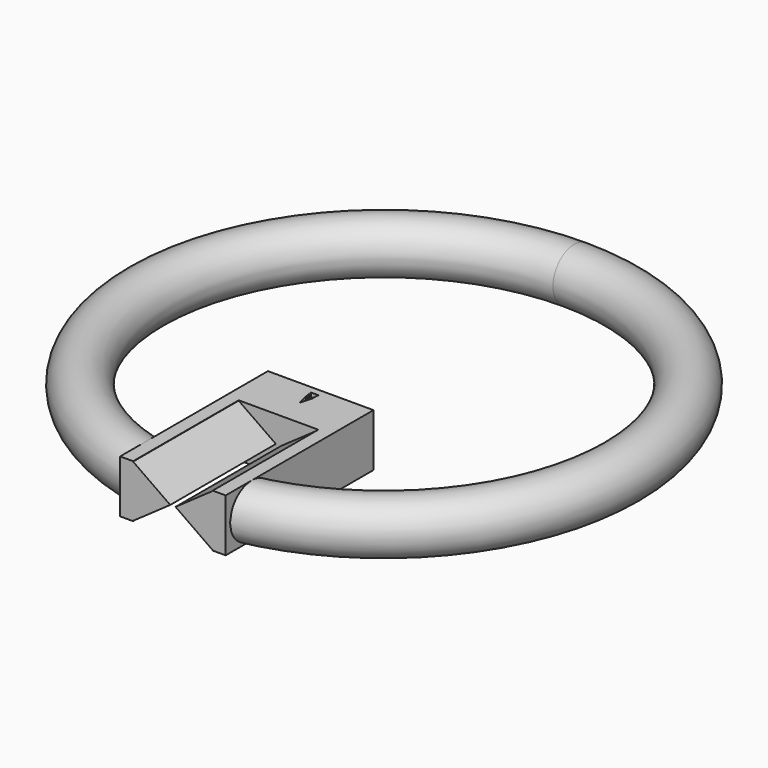
from build123d import *

# Parameters (mm, degrees)
F1_R          = 2
F3_W          = 8
F3_H          = 14
F4_DEPTH      = 2
F4_DEPTH_BACK = 2
F6_START      = 10
F6_DEPTH      = 16
F8_DEPTH      = 25


with BuildPart() as f2:
    # F1 (on Right) → F2 (revolve)
    with BuildSketch(Plane.YZ):
        with Locations((18, 0)):
            Circle(F1_R)
    revolve(axis=Axis((0, 0, 0), (0, 0, 1)))


with BuildPart() as f4:
    # F3 (on Top) → F4 (new body, two sides)
    with BuildSketch(Plane.XY) as f4_sk:
        with Locations((0, -13)):
            Rectangle(F3_W, F3_H)
    extrude(amount=F4_DEPTH)
    extrude(f4_sk.sketch, amount=-F4_DEPTH_BACK)


with BuildPart() as f6_tool:
    # F5 (on Front) → F6 (new body)
    with BuildSketch(Plane.XZ.offset(F6_START)):
        Polygon((-0.2, 0), (0, 0), (0.2, 0), (3.0159020573, 1.9751908258), (3.0159020573, 2.0010224544), (-3.0159020573, 2.0010224544), (-3.0159020573, 1.9751908258), align=None)
        Polygon((0.2, 0), (0, 0), (-0.2, 0), (-3.0159020573, -1.9751908258), (-3.0159020573, -2.0010224544), (3.0159020573, -2.0010224544), (3.0159020573, -1.9751908258), align=None)
    extrude(amount=F6_DEPTH)


with BuildPart() as f2_1:
    add(f2.part)

    # F6: cut by f6_tool
    add(f6_tool.part, mode=Mode.SUBTRACT)


with BuildPart() as f4_1:
    add(f4.part)

    # F6: cut by f6_tool
    add(f6_tool.part, mode=Mode.SUBTRACT)

    # F7 (on face) → F8 (cut)
    with BuildSketch(Plane.XY.offset(2)):
        Polygon((0.3, -6.5454615004), (0, -6.5454615004), (0, -8), (0.254194194, -7.0529617369), (0.1772082032, -7.0529617369), (0.2791219449, -6.7974678241), (0.2203497424, -6.7974678241), align=None)
        Polygon((0, -8), (0, -6.5454615004), (-0.3, -6.5454615004), (-0.2203497424, -6.7974678241), (-0.2791219449, -6.7974678241), (-0.1772082032, -7.0529617369), (-0.254194194, -7.0529617369), align=None)
    extrude(amount=-F8_DEPTH, mode=Mode.SUBTRACT)


solid = Compound([f2_1.part, f4_1.part])
